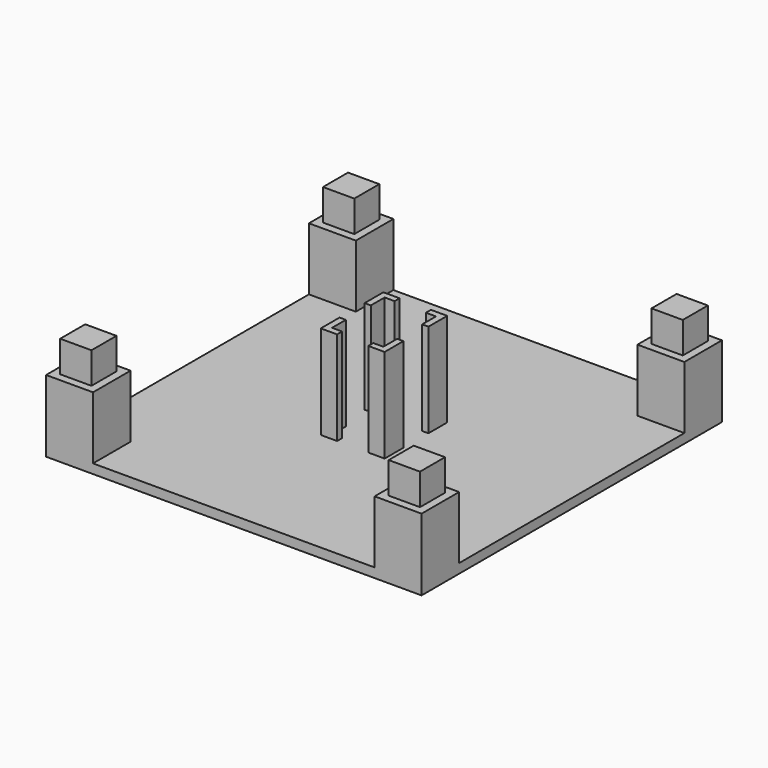
from build123d import *

# Parameters (mm, degrees)
F0_W      = 120
F0_H      = 120
F1_DEPTH  = 3
F2_W      = 15
F2_H      = 15
F3_DEPTH  = 20
F4_W      = 10
F4_H      = 10
F5_DEPTH  = 10
F6_W      = 20.4
F6_H      = 25
F7_DEPTH  = 33
F8_W      = 16.4
F8_H      = 21
F9_DEPTH  = 30
F10_W     = 20.4
F10_H     = 10
F11_DEPTH = 30
F12_W     = 10
F12_H     = 25
F13_DEPTH = 30


with BuildPart() as f1:
    # F0 (on Top) → F1 (new body)
    with BuildSketch(Plane.XY):
        Rectangle(F0_W, F0_H)
    extrude(amount=F1_DEPTH)

    # F2 (on face) → F3 (join)
    with BuildSketch(Plane.XY.offset(3)):
        with Locations((-52.5, 52.5)):
            Rectangle(F2_W, F2_H)
        with Locations((-52.5, -52.5)):
            Rectangle(F2_W, F2_H)
        with Locations((52.5, -52.5)):
            Rectangle(F2_W, F2_H)
        with Locations((52.5, 52.5)):
            Rectangle(F2_W, F2_H)
    extrude(amount=F3_DEPTH)

    # F4 (on face) → F5 (join)
    with BuildSketch(Plane.XY.offset(23)):
        with Locations((-52.5, -52.5)):
            Rectangle(F4_W, F4_H)
        with Locations((52.5, -52.5)):
            Rectangle(F4_W, F4_H)
        with Locations((-52.5, 52.5)):
            Rectangle(F4_W, F4_H)
        with Locations((52.5, 52.5)):
            Rectangle(F4_W, F4_H)
    extrude(amount=F5_DEPTH)

    # F6 (on Top) → F7 (join)
    with BuildSketch(Plane.XY):
        Rectangle(F6_W, F6_H)
    extrude(amount=F7_DEPTH)

    # F8 (on face) → F9 (cut)
    with BuildSketch(Plane.XY.offset(33)):
        Rectangle(F8_W, F8_H)
    extrude(amount=-F9_DEPTH, mode=Mode.SUBTRACT)

    # F10 (on face) → F11 (cut)
    with BuildSketch(Plane.XY.offset(33)):
        Rectangle(F10_W, F10_H)
    extrude(amount=-F11_DEPTH, mode=Mode.SUBTRACT)

    # F12 (on face) → F13 (cut)
    with BuildSketch(Plane.XY.offset(33)):
        Rectangle(F12_W, F12_H)
    extrude(amount=-F13_DEPTH, mode=Mode.SUBTRACT)


solid = f1.part
